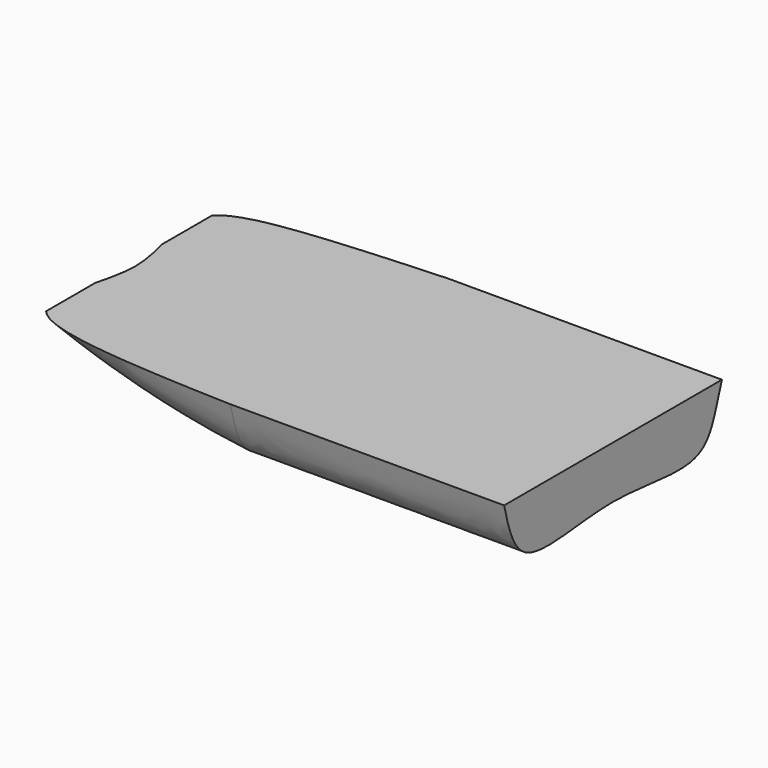
from build123d import *

# Parameters (mm, degrees)
F3_DEPTH = 150
F5_W     = 287.4648571014
F5_H     = 39.5074803382
F6_DEPTH = 100


with BuildPart() as f3:
    # F2 (on offset) → F3 (new body)
    with BuildSketch(Plane.YZ.offset(150)):
        with BuildLine():
            Line((75, 30), (-75, 30))
            add(Edge.make_bspline(
                [(-75, 30), (-71.9329359938, 17.6180406035), (-65.4869883967, -11.7202689141), (-24.2230739874, -0.0289004303), (-0.310510428, 0)],
                knots=[0, 0, 0, 0, 0.2139055177, 0.4987670748, 0.4987670748, 0.4987670748, 0.4987670748], degree=3))
            Line((-0.310510428, 0), (0, 0))
            add(Edge.make_bspline(
                [(0, 0), (24.0188569043, -0.0291511428), (66.5209416521, -11.9529873249), (70.3629883157, 17.8901810125), (75, 30)],
                knots=[0.5, 0.5, 0.5, 0.5, 0.7860944823, 1, 1, 1, 1], degree=3))
        make_face()
    extrude(amount=-F3_DEPTH)

    # F4: sweep along a path in F0
    with BuildLine(Plane.XZ) as f4_path:
        ThreePointArc((-115, 30), (-58.5173093171, 11.1003142846), (0, 0))
    # F3_face (on face) → F4 (sweep)
    with BuildSketch(Plane(origin=(0, -0.2555367718, 14.7206073646), x_dir=(0, 1, 0), z_dir=(-1, 0, 0))):
        with BuildLine():
            add(Edge.make_bspline(
                [(0.2555367718, 14.7206073646), (24.274393676, 14.7497585074), (66.7764784238, 26.6735946895), (70.6185250874, -3.1695736479), (75.2555367718, -15.2793926354)],
                knots=[0.5, 0.5, 0.5, 0.5, 0.7860944823, 1, 1, 1, 1], degree=3))
            Line((0.2555367718, 14.7206073646), (-0.0549736563, 14.7206073646))
            add(Edge.make_bspline(
                [(-74.7444632282, -15.2793926354), (-71.677399222, -2.8974332389), (-65.231451625, 26.4408762787), (-23.9675372157, 14.7495077949), (-0.0549736563, 14.7206073646)],
                knots=[0, 0, 0, 0, 0.2139055177, 0.4987670748, 0.4987670748, 0.4987670748, 0.4987670748], degree=3))
            Line((-74.7444632282, -15.2793926354), (75.2555367718, -15.2793926354))
        make_face()
    sweep(path=f4_path.line)

    # F5 (on Front) → F6 (cut, symmetric)
    with BuildSketch(Plane.XZ):
        with Locations((11.0934823751, 48.3694141731)):
            Rectangle(F5_W, F5_H)
    extrude(amount=F6_DEPTH, both=True, mode=Mode.SUBTRACT)


solid = f3.part
